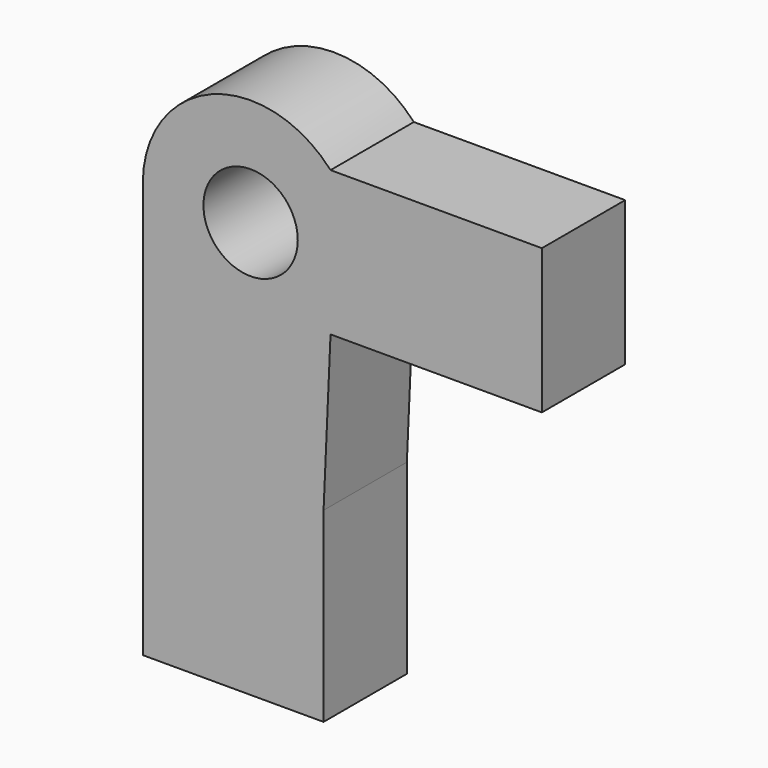
from build123d import *

# Parameters (mm, degrees)
F0_W     = 51.559953
F0_H     = 35.277866
F0_R     = 11.503299
F0_W_2   = 44.0944
F0_H_2   = 45.454167
F1_DEPTH = 25.4


with BuildPart() as f1:
    # F0 (on Front) → F1 (new body)
    with BuildSketch(Plane.XZ):
        with Locations((-12.180215, 52.827764)):
            Rectangle(F0_W, F0_H)
        with BuildLine():
            Line((-83.753567, -3.141921), (-39.659167, -3.141921))
            Line((-39.659167, -3.141921), (-37.960191, 35.188831))
            Line((-37.960191, 35.188831), (-37.960191, 70.466697))
            ThreePointArc((-37.960191, 70.466697), (-66.91086, 77.364294), (-83.753567, 52.827764))
            Line((-83.753567, 52.827764), (-83.753567, -3.141921))
        make_face()
        with Locations((-57.459751, 52.827764)):
            Circle(F0_R, mode=Mode.SUBTRACT)
        with Locations((-61.706367, -25.869004)):
            Rectangle(F0_W_2, F0_H_2)
    extrude(amount=F1_DEPTH)


solid = f1.part
